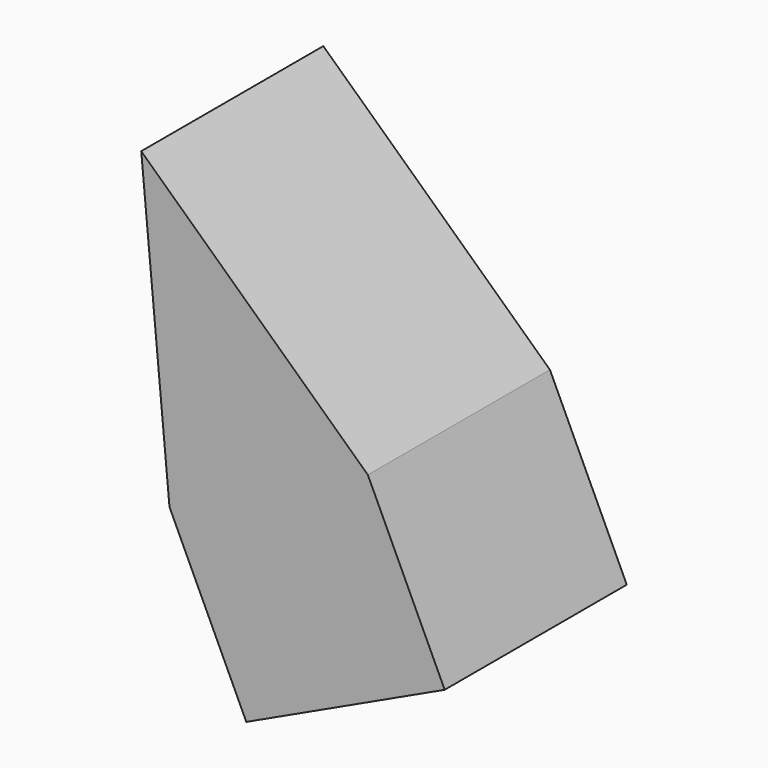
from build123d import *

# Parameters (mm, degrees)
F1_DEPTH = 93.4080928564
F2_W     = 89.8746488761
F2_H     = 93.4080928564
F3_DEPTH = 74.4271874428


with BuildPart() as f1:
    # F0 (on Front) → F1 (new body)
    with BuildSketch(Plane.XZ):
        Polygon((45.3366972506, -36.9894355536), (-47.6617254317, 49.6980175376), (-36.0739678144, -75.0650987029), align=None)
    extrude(amount=F1_DEPTH)

    # F2 (on face) → F3 (join)
    with BuildSketch(Plane(origin=(22.3320055632, 0, -47.7487002131), x_dir=(0.9058245688, 0, 0.4236529836), z_dir=(0.4236529836, 0, -0.9058245688))):
        with Locations((-19.540914935, 46.7040464282)):
            Rectangle(F2_W, F2_H)
    extrude(amount=F3_DEPTH)


solid = f1.part
